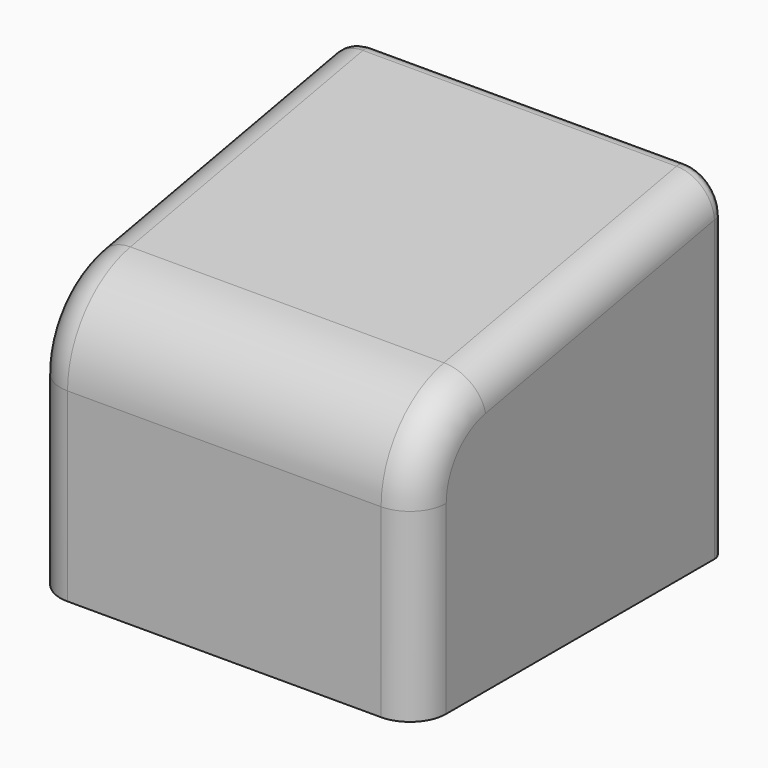
from build123d import *

# Parameters (mm, degrees)
F1_DEPTH = 14
F3_DEPTH = 16
F4_DEPTH = 16
F5_R     = 1.5
F6_DEPTH = 1.3
F7_R     = 0.5


with BuildPart() as f1:
    # F0 (on Top) → F1 (new body)
    with BuildSketch(Plane.XY):
        Polygon((6.4673761603, 1.1610865705), (6.4673761603, -1.1610865705), (4.5, -1.1610865705), (4.5, -2.5941354688), (6.4673761603, -2.5941354688), (6.4673761603, -7.0438799448), (0, -7.0438799448), (-6.4673761603, -7.0438799448), (-6.4673761603, -2.5941354688), (-4.5, -2.5941354688), (-4.5, -1.1610865705), (-6.4673761603, -1.1610865705), (-6.4673761603, 1.1610865705), (-4.5, 1.1610865705), (-4.5, 2.5941354688), (-6.4673761603, 2.5941354688), (-6.4673761603, 6.996571178), (-8, 6.996571178), (-8, -8.903428822), (8, -8.903428822), (8, 6.996571178), (6.4673761603, 6.996571178), (6.4673761603, 2.5941354688), (4.5, 2.5941354688), (4.5, 1.1610865705), align=None)
        with BuildLine():
            Line((0.5740744527, 1.1610865705), (4.5, 1.1610865705))
            Line((4.5, 1.1610865705), (4.5, 2.5941354688))
            Line((4.5, 2.5941354688), (1.9127666601, 2.5941354688))
            ThreePointArc((1.9127666601, 2.5941354688), (0, 3.7664402702), (-1.9127666601, 2.5941354688))
            Line((-1.9127666601, 2.5941354688), (-4.5, 2.5941354688))
            Line((-4.5, 2.5941354688), (-4.5, 1.1610865705))
            Line((-4.5, 1.1610865705), (-0.5740744527, 1.1610865705))
            Line((-0.5740744527, 1.1610865705), (-0.5740744527, 2.0683966577))
            Line((-0.5740744527, 2.0683966577), (0.5740744527, 2.0683966577))
            Line((0.5740744527, 2.0683966577), (0.5740744527, 1.1610865705))
        make_face()
        with BuildLine():
            Line((4.5, -2.5941354688), (4.5, -1.1610865705))
            Line((4.5, -1.1610865705), (0.5740744527, -1.1610865705))
            Line((0.5740744527, -1.1610865705), (0.5740744527, -2.0683966577))
            Line((0.5740744527, -2.0683966577), (-0.5740744527, -2.0683966577))
            Line((-0.5740744527, -2.0683966577), (-0.5740744527, -1.1610865705))
            Line((-0.5740744527, -1.1610865705), (-4.5, -1.1610865705))
            Line((-4.5, -1.1610865705), (-4.5, -2.5941354688))
            Line((-4.5, -2.5941354688), (-1.9127666601, -2.5941354688))
            ThreePointArc((-1.9127666601, -2.5941354688), (-1.1217146299, -3.4500472339), (0, -3.7664402702))
            ThreePointArc((0, -3.7664402702), (1.1217146299, -3.4500472339), (1.9127666601, -2.5941354688))
            Line((1.9127666601, -2.5941354688), (4.5, -2.5941354688))
        make_face()
    extrude(amount=F1_DEPTH)

    # F2 (on face) → F3 (intersect, through all)
    with BuildSketch(Plane(origin=(-8, 0, 0), x_dir=(0, -1, 0), z_dir=(-1, 0, 0))):
        with BuildLine():
            Line((5.36694847, 10.1407940407), (-6.996571178, 12.473533597))
            Line((-6.996571178, 12.473533597), (-6.996571178, 0))
            Line((-6.996571178, 0), (7.403428822, 0))
            Line((7.403428822, 0), (7.403428822, 7.6841399064))
            ThreePointArc((7.403428822, 7.6841399064), (6.8281104996, 9.2796336983), (5.36694847, 10.1407940407))
        make_face()
    extrude(amount=-F3_DEPTH, mode=Mode.INTERSECT)

    # F2 (on face) → F4 (join, through all)
    with BuildSketch(Plane(origin=(-8, 0, 0), x_dir=(0, -1, 0), z_dir=(-1, 0, 0))):
        with BuildLine():
            Line((5.6450602588, 11.6147865214), (-6.996571178, 14))
            Line((-6.996571178, 14), (-6.996571178, 12.473533597))
            Line((-6.996571178, 12.473533597), (5.36694847, 10.1407940407))
            ThreePointArc((5.36694847, 10.1407940407), (6.8281104996, 9.2796336983), (7.403428822, 7.6841399064))
            Line((7.403428822, 7.6841399064), (7.403428822, 0))
            Line((7.403428822, 0), (8.903428822, 0))
            Line((8.903428822, 0), (8.903428822, 7.6841399064))
            ThreePointArc((8.903428822, 7.6841399064), (7.9829195061, 10.2369299734), (5.6450602588, 11.6147865214))
        make_face()
    extrude(amount=-F4_DEPTH)

    # F5
    f5_edges = [f1.edges().sort_by_distance(p)[0] for p in [
        (-8, 0.675755, 12.807393),
        (8, 0.675755, 12.807393),
    ]]
    fillet(f5_edges, radius=F5_R)

    # F0 (on Top) → F6 (join)
    with BuildSketch(Plane.XY):
        with BuildLine():
            Line((4.5, -2.5941354688), (4.5, -1.1610865705))
            Line((4.5, -1.1610865705), (0.5740744527, -1.1610865705))
            Line((0.5740744527, -1.1610865705), (0.5740744527, -2.0683966577))
            Line((0.5740744527, -2.0683966577), (-0.5740744527, -2.0683966577))
            Line((-0.5740744527, -2.0683966577), (-0.5740744527, -1.1610865705))
            Line((-0.5740744527, -1.1610865705), (-4.5, -1.1610865705))
            Line((-4.5, -1.1610865705), (-4.5, -2.5941354688))
            Line((-4.5, -2.5941354688), (-1.9127666601, -2.5941354688))
            ThreePointArc((-1.9127666601, -2.5941354688), (-1.1217146299, -3.4500472339), (0, -3.7664402702))
            ThreePointArc((0, -3.7664402702), (1.1217146299, -3.4500472339), (1.9127666601, -2.5941354688))
            Line((1.9127666601, -2.5941354688), (4.5, -2.5941354688))
        make_face()
        with BuildLine():
            Line((0.5740744527, 1.1610865705), (4.5, 1.1610865705))
            Line((4.5, 1.1610865705), (4.5, 2.5941354688))
            Line((4.5, 2.5941354688), (1.9127666601, 2.5941354688))
            ThreePointArc((1.9127666601, 2.5941354688), (0, 3.7664402702), (-1.9127666601, 2.5941354688))
            Line((-1.9127666601, 2.5941354688), (-4.5, 2.5941354688))
            Line((-4.5, 2.5941354688), (-4.5, 1.1610865705))
            Line((-4.5, 1.1610865705), (-0.5740744527, 1.1610865705))
            Line((-0.5740744527, 1.1610865705), (-0.5740744527, 2.0683966577))
            Line((-0.5740744527, 2.0683966577), (0.5740744527, 2.0683966577))
            Line((0.5740744527, 2.0683966577), (0.5740744527, 1.1610865705))
        make_face()
    extrude(amount=-F6_DEPTH)

    # F7
    f7_edges = [f1.edges().sort_by_distance(p)[0] for p in [
        (-4.5, -1.877611, -1.3),
        (-4.5, 1.877611, -1.3),
        (4.5, -1.877611, -1.3),
        (4.5, 1.877611, -1.3),
        (0, 6.996571, 14),
    ]]
    fillet(f7_edges, radius=F7_R)


solid = f1.part
